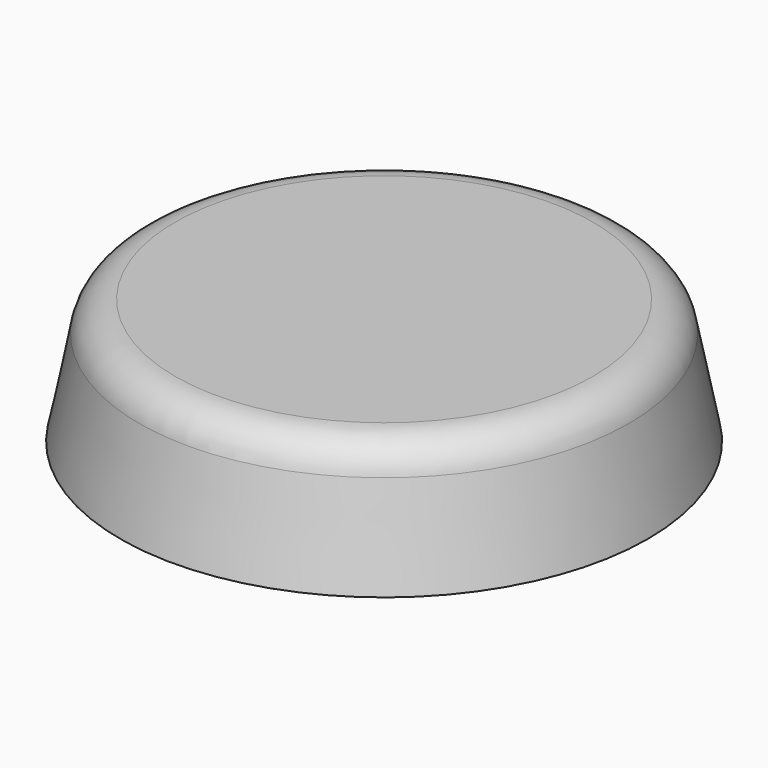
from build123d import *

# Parameters (mm, degrees)
F2_R = 2
F3_T = -0.75


with BuildPart() as f1:
    # F0 (on Front) → F1 (revolve)
    with BuildSketch(Plane.XZ):
        Polygon((0, 6.8), (0, 0), (14.35, 0), (13, 6.8), align=None)
    revolve(axis=Axis((0, 0, 3.4), (0, 0, 1)))

    # F2
    f2_edges = [f1.edges().sort_by_distance(p)[0] for p in [
        (-13, 0, 6.8),
    ]]
    fillet(f2_edges, radius=F2_R)

    # F3
    f3_openings = [f1.faces().sort_by_distance(p)[0] for p in [
        (0, 0, 0),
    ]]
    offset(amount=F3_T, openings=f3_openings)


solid = f1.part
